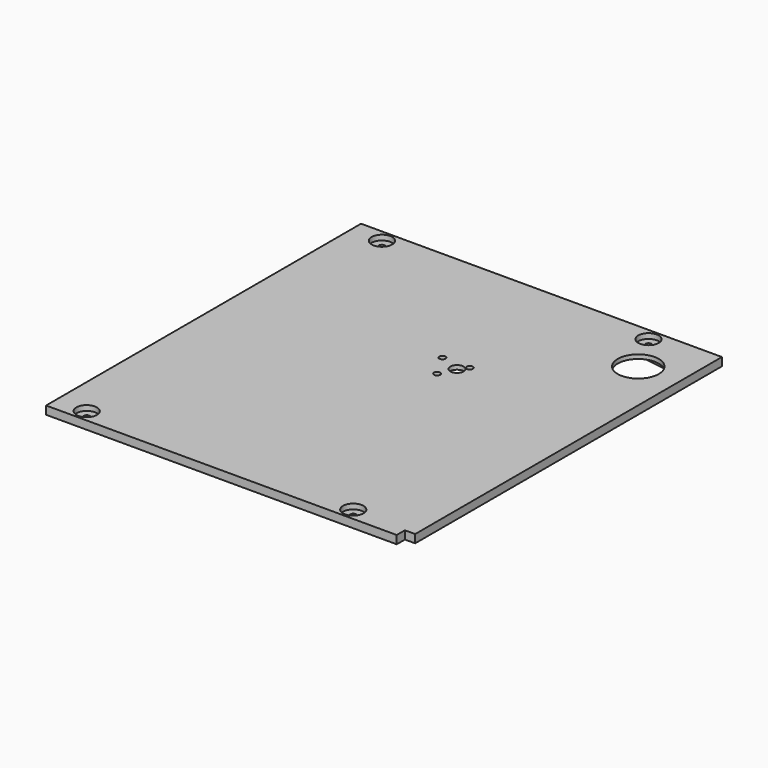
from build123d import *

# Parameters (mm, degrees)
SKETCH_R        = 6.5
SKETCH_R_2      = 3
SKETCH_R_3      = 20
PAD014_DEPTH    = 8
SKETCH029_R     = 10
POCKET004_DEPTH = 5
POCKET008_DEPTH = 4


with BuildPart() as part:
    # Sketch → Pad014 (new body)
    with BuildSketch(Plane.XY.offset(32)):
        Polygon((40, 192), (392, 192), (392, -182), (382, -182), (382, -192), (40, -192), align=None)
        with Locations((246.8, 50.5)):
            Circle(SKETCH_R, mode=Mode.SUBTRACT)
        with Locations((239.8, 35)):
            Circle(SKETCH_R_2, mode=Mode.SUBTRACT)
        with Locations((226.376606, 58.25)):
            Circle(SKETCH_R_2, mode=Mode.SUBTRACT)
        with Locations((253.223394, 58.25)):
            Circle(SKETCH_R_2, mode=Mode.SUBTRACT)
        with Locations((70, 180)):
            Circle(SKETCH_R_2, mode=Mode.SUBTRACT)
        with Locations((330, 180)):
            Circle(SKETCH_R_2, mode=Mode.SUBTRACT)
        with Locations((70, -180)):
            Circle(SKETCH_R_2, mode=Mode.SUBTRACT)
        with Locations((330, -180)):
            Circle(SKETCH_R_2, mode=Mode.SUBTRACT)
        with Locations((352, 140)):
            Circle(SKETCH_R_3, mode=Mode.SUBTRACT)
    extrude(amount=-PAD014_DEPTH)

    # Sketch029 → Pocket004 (cut)
    with BuildSketch(Plane.XY.offset(32)):
        with Locations((70, 180)):
            Circle(SKETCH029_R)
        with Locations((330, 180)):
            Circle(SKETCH029_R)
        with Locations((330, -180)):
            Circle(SKETCH029_R)
        with Locations((70, -180)):
            Circle(SKETCH029_R)
    extrude(amount=-POCKET004_DEPTH, mode=Mode.SUBTRACT)

    # Sketch037 → Pocket008 (cut)
    with BuildSketch(Plane(origin=(0, 0, 24), x_dir=(1, 0, 0), z_dir=(0, 0, -1))):
        with BuildLine():
            ThreePointArc((230.340527, -92.165245), (221.832227, -137.151247), (229.197543, -182.338454))
            Line((371.961304, -159.605377), (229.197543, -182.338454))
            Line((385.298035, -14.416777), (371.961304, -159.605377))
            ThreePointArc((385.298035, -14.416777), (330.776181, -12.233466), (280.15249, -32.596211))
            ThreePointArc((280.15249, -32.596211), (224.259659, -36.469349), (230.340527, -92.165245))
        make_face()
    extrude(amount=-POCKET008_DEPTH, mode=Mode.SUBTRACT)


solid = part.part
